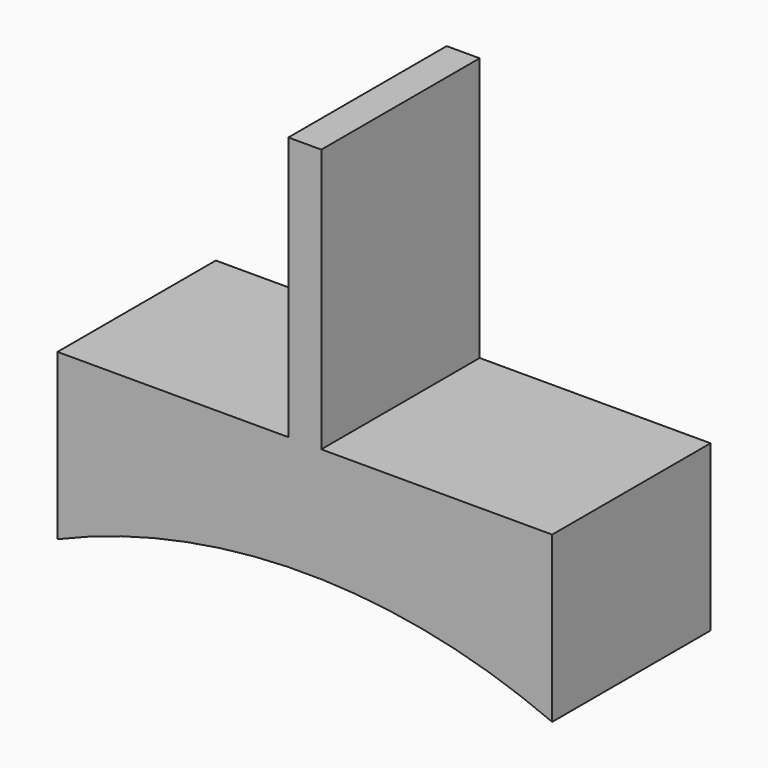
from build123d import *

# Parameters (mm, degrees)
F0_W     = 1
F0_H     = 8
F1_DEPTH = 6


with BuildPart() as f1:
    # F0 (on Front) → F1 (new body)
    with BuildSketch(Plane.XZ):
        with BuildLine():
            ThreePointArc((-7.5, 17.511496), (0, 19.05), (7.5, 17.511496))
            Line((7.5, 17.511496), (7.5, 22.511496))
            Line((7.5, 22.511496), (0.5, 22.511496))
            Line((0.5, 22.511496), (-0.5, 22.511496))
            Line((-0.5, 22.511496), (-7.5, 22.511496))
            Line((-7.5, 22.511496), (-7.5, 17.511496))
        make_face()
        with Locations((0, 26.511496)):
            Rectangle(F0_W, F0_H)
    extrude(amount=F1_DEPTH)


solid = f1.part
